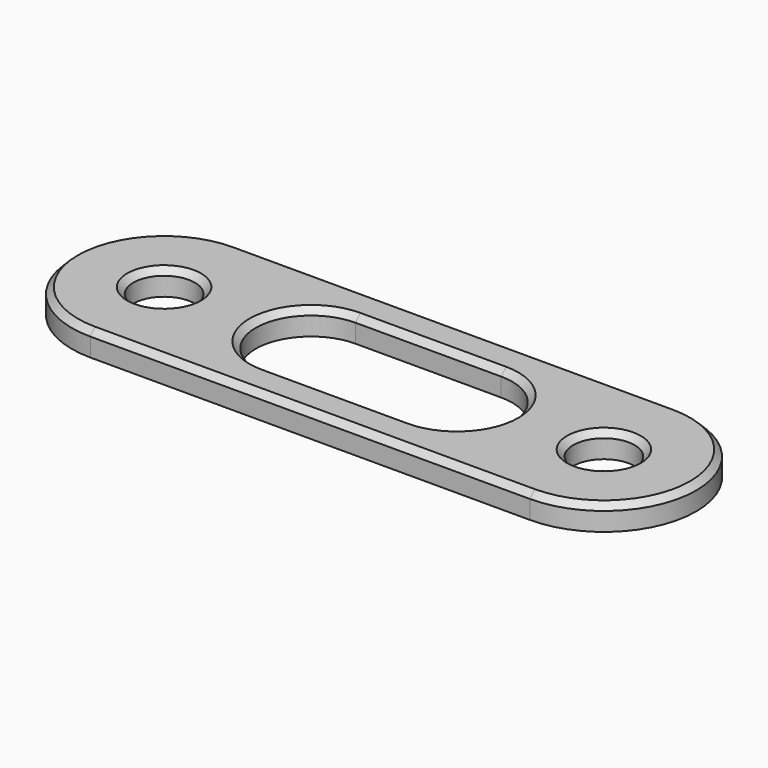
from build123d import *

# Parameters (mm, degrees)
SKETCH_R        = 5
PAD_DEPTH       = 4
CHAMFER_SIZE    = 1
CHAMFER001_SIZE = 1
CHAMFER002_SIZE = 1


with BuildPart() as part:
    # Sketch → Pad (new body)
    with BuildSketch(Plane.XY):
        with BuildLine():
            ThreePointArc((-35.75, 15), (-50.75, 0), (-35.75, -15))
            Line((-35.75, -15), (35.75, -15))
            ThreePointArc((35.75, -15), (50.75, 0), (35.75, 15))
            Line((-35.75, 15), (35.75, 15))
        make_face()
        with Locations((-35.75, 0)):
            Circle(SKETCH_R, mode=Mode.SUBTRACT)
        with Locations((35.75, 0)):
            Circle(SKETCH_R, mode=Mode.SUBTRACT)
        with BuildLine():
            ThreePointArc((-11.85289, 9), (-20.85289, 0), (-11.85289, -9))
            Line((-11.85289, -9), (11.85289, -9))
            ThreePointArc((11.85289, -9), (20.85289, 0), (11.85289, 9))
            Line((-11.85289, 9), (11.85289, 9))
        make_face(mode=Mode.SUBTRACT)
    extrude(amount=PAD_DEPTH)

    # Chamfer
    chamfer_edges = [part.edges().sort_by_distance(p)[0] for p in [
        (-40.75, 0, 4),
        (30.75, 0, 4),
    ]]
    chamfer(chamfer_edges, length=CHAMFER_SIZE)

    # Chamfer001
    chamfer001_edges = [part.edges().sort_by_distance(p)[0] for p in [
        (0, 15, 4),
        (50.75, 0, 4),
        (0, -15, 4),
        (-50.75, 0, 4),
    ]]
    chamfer(chamfer001_edges, length=CHAMFER001_SIZE)

    # Chamfer002
    chamfer002_edges = [part.edges().sort_by_distance(p)[0] for p in [
        (20.85289, 0, 4),
        (0, -9, 4),
        (-20.85289, 0, 4),
        (0, 9, 4),
    ]]
    chamfer(chamfer002_edges, length=CHAMFER002_SIZE)


solid = part.part
